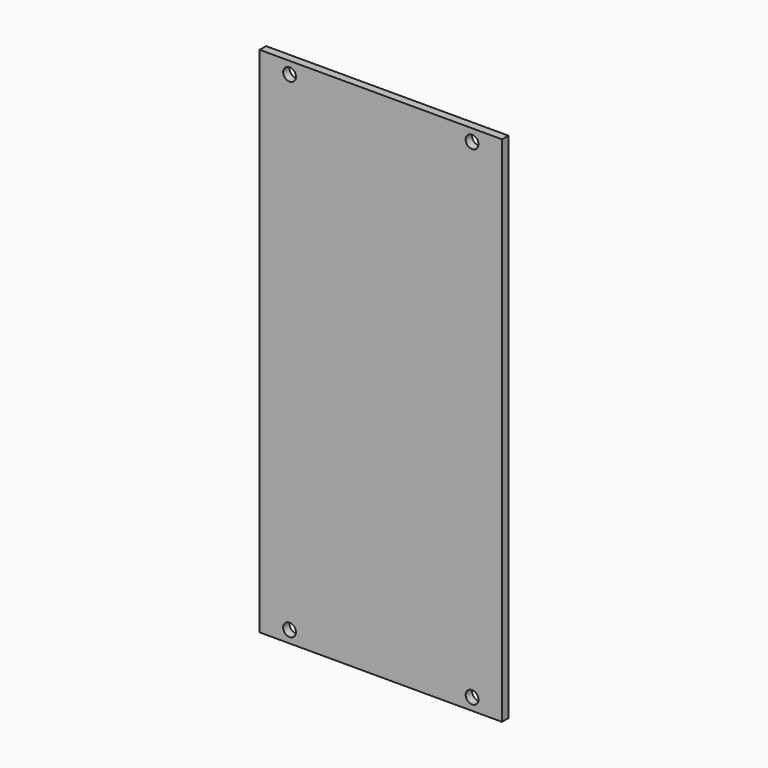
from build123d import *

# Parameters (mm, degrees)
SKETCH_W  = 60.72
SKETCH_H  = 128.5
SKETCH_R  = 1.6
PAD_DEPTH = 2


with BuildPart() as part:
    # Sketch → Pad (new body)
    with BuildSketch(Plane.XZ):
        Rectangle(SKETCH_W, SKETCH_H)
        with Locations((-22.86, 61.25)):
            Circle(SKETCH_R, mode=Mode.SUBTRACT)
        with Locations((22.86, 61.25)):
            Circle(SKETCH_R, mode=Mode.SUBTRACT)
        with Locations((22.86, -61.25)):
            Circle(SKETCH_R, mode=Mode.SUBTRACT)
        with Locations((-22.86, -61.25)):
            Circle(SKETCH_R, mode=Mode.SUBTRACT)
    extrude(amount=PAD_DEPTH)


solid = part.part
